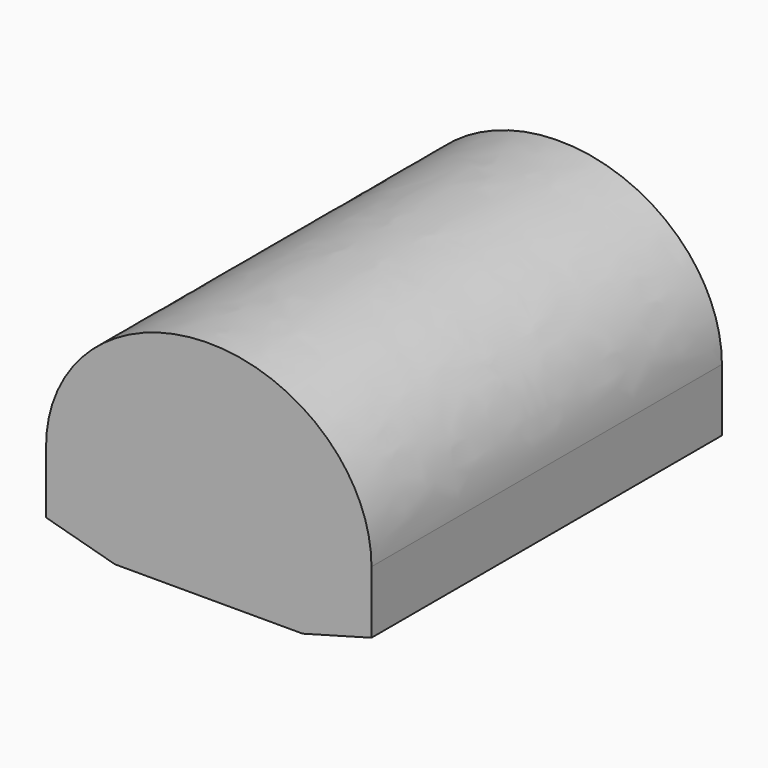
from build123d import *

# Parameters (mm, degrees)
F1_DEPTH = 70


with BuildPart() as f1:
    # F0 (on Front) → F1 (new body)
    with BuildSketch(Plane.XZ):
        with BuildLine():
            Line((26, -10), (26, 0))
            add(Edge.make_bspline(
                [(26, 0), (26, 23), (0, 23), (-26, 23), (-26, 0)],
                knots=[0, 0, 0, 1.5707963268, 1.5707963268, 3.1415926536, 3.1415926536, 3.1415926536], degree=2, weights=[1, 0.7071067812, 1, 0.7071067812, 1]))
            Line((-26, 0), (-26, -10))
            Line((-26, -10), (-15, -13))
            Line((-15, -13), (15, -13))
            Line((15, -13), (26, -10))
        make_face()
    extrude(amount=F1_DEPTH)


solid = f1.part
